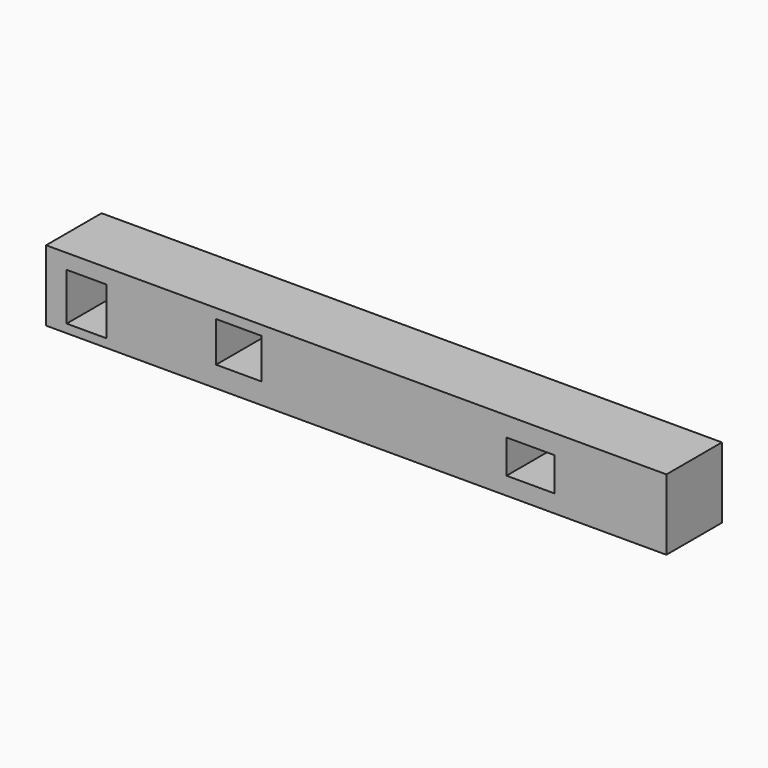
from build123d import *

# Parameters (mm, degrees)
F0_W     = 227.11908
F0_H     = 25.916077
F0_W_2   = 14.513008
F0_H_2   = 17.340212
F0_W_3   = 17.492868
F0_H_3   = 12.324523
F0_W_4   = 16.69774
F0_H_4   = 14.709914
F1_DEPTH = 25.4


with BuildPart() as f1:
    # F0 (on Front) → F1 (new body)
    with BuildSketch(Plane.XZ):
        with Locations((40.617559, 12.958038)):
            Rectangle(F0_W, F0_H)
        with Locations((-58.146257, 11.780035)):
            Rectangle(F0_W_2, F0_H_2, mode=Mode.SUBTRACT)
        with Locations((104.388017, 12.622695)):
            Rectangle(F0_W_3, F0_H_3, mode=Mode.SUBTRACT)
        with Locations((-2.358241, 15.008087)):
            Rectangle(F0_W_4, F0_H_4, mode=Mode.SUBTRACT)
    extrude(amount=F1_DEPTH)


solid = f1.part
